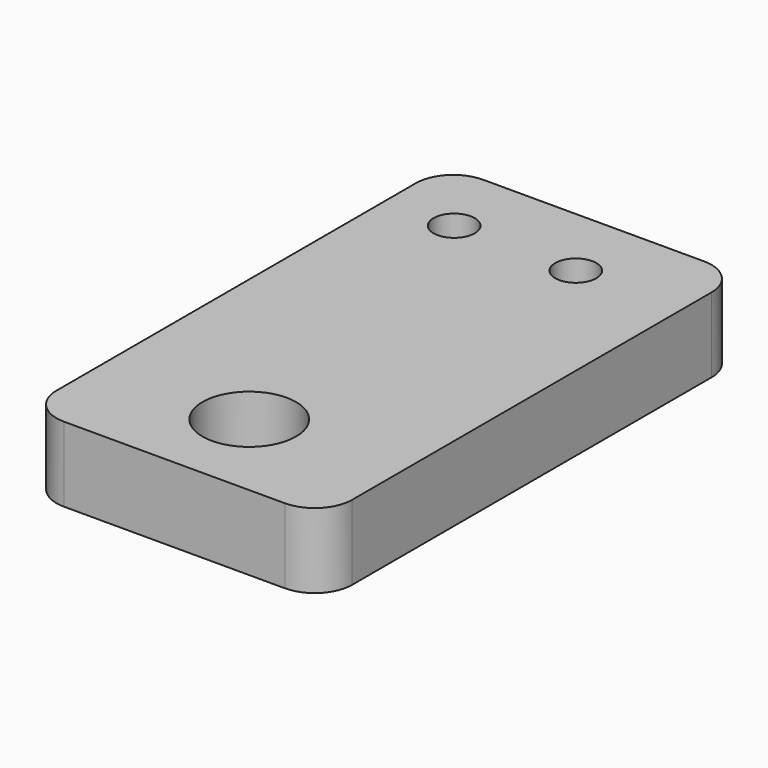
from build123d import *

# Parameters (mm, degrees)
F0_R     = 2.5
F0_R_2   = 1.1
F1_DEPTH = 4
F2_R     = 2


with BuildPart() as f1:
    # F0 (on Top) → F1 (new body)
    with BuildSketch(Plane.XY):
        Polygon((7.9, 16.392971), (0, 16.392971), (-7.9, 16.392971), (-7.9, -11.607029), (0, -11.607029), (7.9, -11.607029), align=None)
        with Locations((0, -6.607029)):
            Circle(F0_R, mode=Mode.SUBTRACT)
        with Locations((-4.25, 12.392971)):
            Circle(F0_R_2, mode=Mode.SUBTRACT)
        with Locations((2.25, 12.392971)):
            Circle(F0_R_2, mode=Mode.SUBTRACT)
    extrude(amount=F1_DEPTH)

    # F2
    f2_edges = [f1.edges().sort_by_distance(p)[0] for p in [
        (7.9, -11.607029, 2),
        (7.9, 16.392971, 2),
        (-7.9, -11.607029, 2),
        (-7.9, 16.392971, 2),
    ]]
    fillet(f2_edges, radius=F2_R)


solid = f1.part
